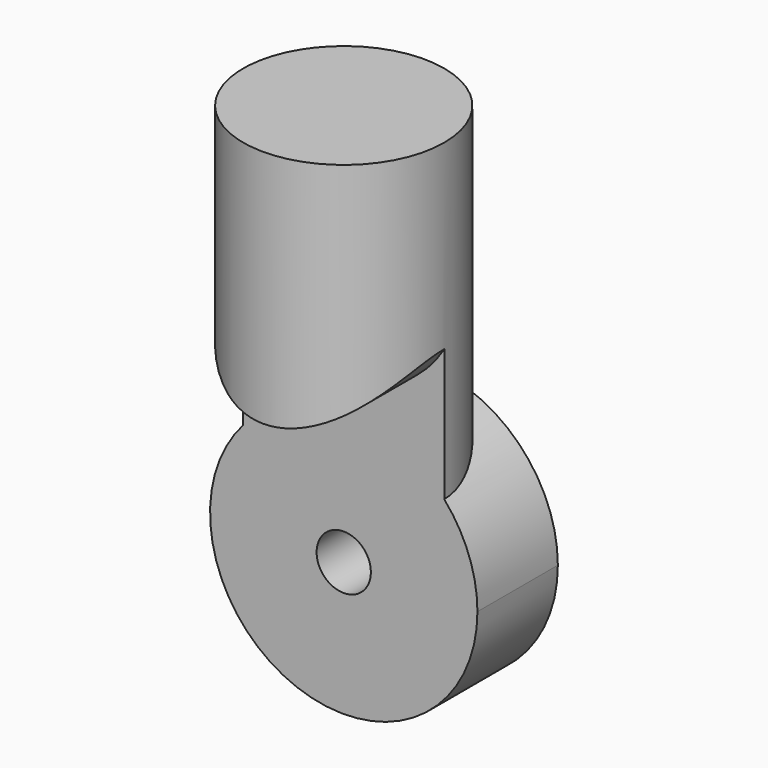
from build123d import *

# Parameters (mm, degrees)
F0_R      = 16.890202
F1_DEPTH  = 12.7
F2_R      = 12.7
F3_DEPTH  = 50.8
F5_R      = 16.890202
F6_DEPTH  = 12.7
F7_R      = 3.429
F8_DEPTH  = 12.701
F10_DEPTH = 12.7


with BuildPart() as f1:
    # F0 (on Front) → F1 (new body, symmetric)
    with BuildSketch(Plane.XZ):
        Circle(F0_R)
    extrude(amount=F1_DEPTH, both=True)

    # F2 (on Top) → F3 (join)
    with BuildSketch(Plane.XY):
        Circle(F2_R)
    extrude(amount=F3_DEPTH)

    # F5 (on offset) → F6 (cut)
    with BuildSketch(Plane.XZ.offset(12.7)):
        Circle(F5_R)
    extrude(amount=-F6_DEPTH, mode=Mode.SUBTRACT)

    # F7 (on face) → F8 (cut, through all)
    with BuildSketch(Plane.XZ):
        Circle(F7_R)
    extrude(amount=-F8_DEPTH, mode=Mode.SUBTRACT)

    # F9 (on offset) → F10 (cut, through all)
    with BuildSketch(Plane.XZ.offset(12.7)):
        with BuildLine():
            ThreePointArc((13.434605, 29.257544), (0, 20.560373), (-13.434605, 29.257544))
            Line((-13.434605, 29.257544), (-13.434605, 6.106135))
            Line((-13.434605, 6.106135), (13.446192, 6.106135))
            Line((13.446192, 6.106135), (13.446192, 29.257544))
            Line((13.446192, 29.257544), (13.434605, 29.257544))
        make_face()
    extrude(amount=-F10_DEPTH, mode=Mode.SUBTRACT)


solid = f1.part
